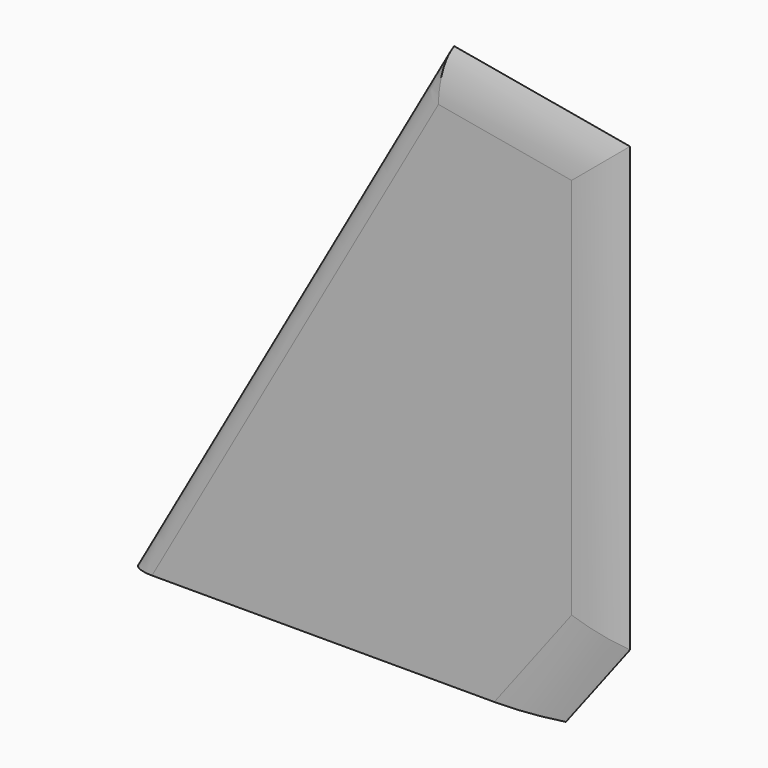
from build123d import *

# Parameters (mm, degrees)
F1_DEPTH  = 1.190625
F4_DEPTH  = 100.9182092655
F7_DEPTH  = 38.1
F9_DEPTH  = 77.4710001
F12_DEPTH = 38.1


with BuildPart() as f1:
    # F0 (on Front) → F1 (new body, symmetric)
    with BuildSketch(Plane.XZ):
        Polygon((0, 0), (47.244, 0), (56.134, 11.684), (56.134, 57.6660068989), (34.6639213115, 61.468), align=None)
        Polygon((47.244, 0), (52.578, 0), (61.468, 11.684), (61.468, 64.8230381148), (38.8178622951, 68.834), (34.6639213115, 61.468), (56.134, 57.6660068989), (56.134, 11.684), align=None)
        Polygon((52.578, 0), (59.182, 0), (68.072, 11.684), (68.072, 73.152), (43.688, 77.47), (38.8178622951, 68.834), (61.468, 64.8230381148), (61.468, 11.684), align=None)
    extrude(amount=F1_DEPTH, both=True)

    # F3 (on line) → F4 (cut, through all)
    with BuildSketch(Plane(origin=(0, 0, 0), x_dir=(0.8710411332, 0, -0.4912100817), z_dir=(0.4912100817, 0, 0.8710411332))):
        with BuildLine():
            add(Edge.make_bspline(
                [(2.38125, 1.190625), (0, 1.190625), (0, 0), (0, -1.190625), (2.38125, -1.190625)],
                knots=[4.7123889804, 4.7123889804, 4.7123889804, 6.2831853072, 6.2831853072, 7.853981634, 7.853981634, 7.853981634], degree=2, weights=[1, 0.7071067812, 1, 0.7071067812, 1]))
            Line((2.38125, 1.190625), (2.38125, 3.730625))
            Line((2.38125, 3.730625), (-2.54, 3.730625))
            Line((-2.54, 3.730625), (-2.54, 0))
            Line((-2.54, 0), (-2.54, -3.730625))
            Line((-2.54, -3.730625), (2.38125, -3.730625))
            Line((2.38125, -3.730625), (2.38125, -1.190625))
        make_face()
    extrude(amount=F4_DEPTH, mode=Mode.SUBTRACT)

    # F6 (on line) → F7 (cut, symmetric)
    with BuildSketch(Plane(origin=(21.6994762047, 0, 28.5193115834), x_dir=(0.7958286941, 0, -0.6055218325), z_dir=(-0.6055218325, 0, -0.7958286941))):
        with BuildLine():
            ThreePointArc((47.0987337755, 0), (43.5761283443, -0.8909299129), (39.9549837755, -1.190625))
            Line((39.9549837755, -1.190625), (39.9549837755, -3.730625))
            Line((39.9549837755, -3.730625), (49.6387337755, -3.730625))
            Line((49.6387337755, -3.730625), (49.6387337755, 0))
            Line((49.6387337755, 0), (49.6387337755, 3.730625))
            Line((49.6387337755, 3.730625), (39.9549837755, 3.730625))
            Line((39.9549837755, 3.730625), (39.9549837755, 1.190625))
            ThreePointArc((39.9549837755, 1.190625), (43.5761283443, 0.8909299129), (47.0987337755, 0))
        make_face()
    extrude(amount=F7_DEPTH, both=True, mode=Mode.SUBTRACT)

    # F8 (on Top) → F9 (cut, through all)
    with BuildSketch(Plane.XY):
        with BuildLine():
            Line((60.92825, 3.730625), (60.92825, 1.190625))
            ThreePointArc((60.92825, 1.190625), (64.5493945688, 0.8909299129), (68.072, 0))
            ThreePointArc((68.072, 0), (64.5493945688, -0.8909299129), (60.92825, -1.190625))
            Line((60.92825, -1.190625), (60.92825, -3.730625))
            Line((60.92825, -3.730625), (70.612, -3.730625))
            Line((70.612, -3.730625), (70.612, 0))
            Line((70.612, 0), (70.612, 3.730625))
            Line((70.612, 3.730625), (60.92825, 3.730625))
        make_face()
    extrude(amount=F9_DEPTH, mode=Mode.SUBTRACT)

    # F11 (on line) → F12 (cut, symmetric)
    with BuildSketch(Plane(origin=(53.4421344555, 0, -9.4637113098), x_dir=(0, 1, 0), z_dir=(0.9846801257, 0, -0.1743704389))):
        with BuildLine():
            ThreePointArc((0, 83.9010650771), (0.8909299129, 80.378459646), (1.190625, 76.7573150771))
            Line((1.190625, 76.7573150771), (3.730625, 76.7573150771))
            Line((3.730625, 76.7573150771), (3.730625, 86.4410650771))
            Line((3.730625, 86.4410650771), (0, 86.4410650771))
            Line((0, 86.4410650771), (-3.730625, 86.4410650771))
            Line((-3.730625, 86.4410650771), (-3.730625, 76.7573150771))
            Line((-3.730625, 76.7573150771), (-1.190625, 76.7573150771))
            ThreePointArc((-1.190625, 76.7573150771), (-0.8909299129, 80.378459646), (0, 83.9010650771))
        make_face()
    extrude(amount=F12_DEPTH, both=True, mode=Mode.SUBTRACT)


solid = f1.part
